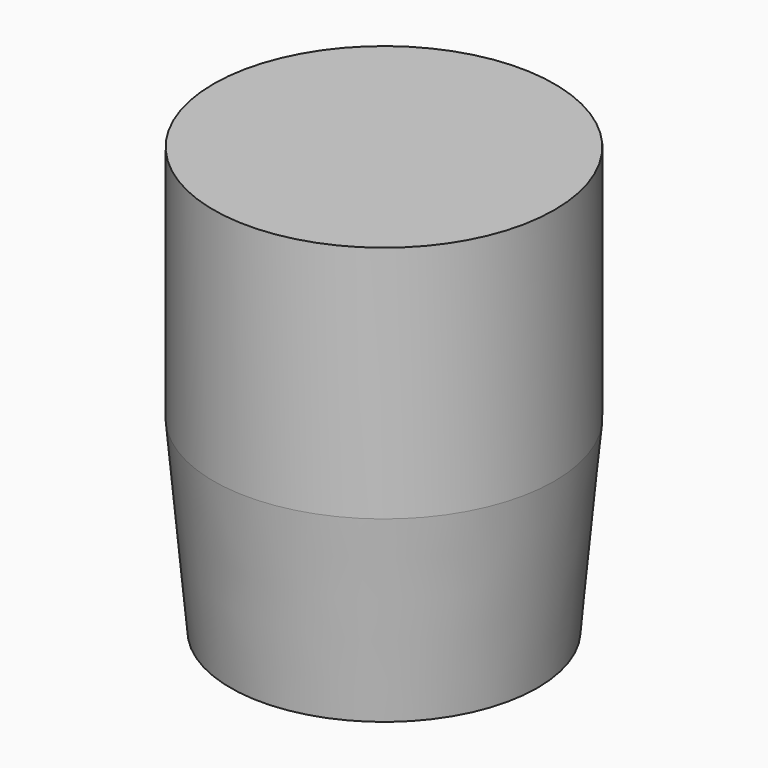
from build123d import *

# Parameters (mm, degrees)
F0_R     = 10
F1_DEPTH = 25
F2_D     = 7.9375
F2_DEPTH = 22
F2_TIP   = 2.3846655818


with BuildPart() as f1:
    # F0 (on Top) → F1 (new body)
    with BuildSketch(Plane.XY):
        Circle(F0_R)
    extrude(amount=F1_DEPTH)

    # F2
    with Locations(Plane(origin=(0, 0, 0), x_dir=(1, 0, 0), z_dir=(0, 0, -1))):
        with Locations((0, 0)):
            Hole(F2_D / 2, depth=F2_DEPTH)
            with Locations((0, 0, -(F2_DEPTH + F2_TIP / 2))):  # 118° drill point
                Cone(0, F2_D / 2, F2_TIP, mode=Mode.SUBTRACT)

    # F3 (on Front) → F4 (revolve, cut)
    with BuildSketch(Plane.XZ):
        Polygon((-10, 11), (-10, 0), (-9, 0), align=None)
    revolve(axis=Axis((0, 0, 5.5), (0, 0, 1)), mode=Mode.SUBTRACT)


solid = f1.part
